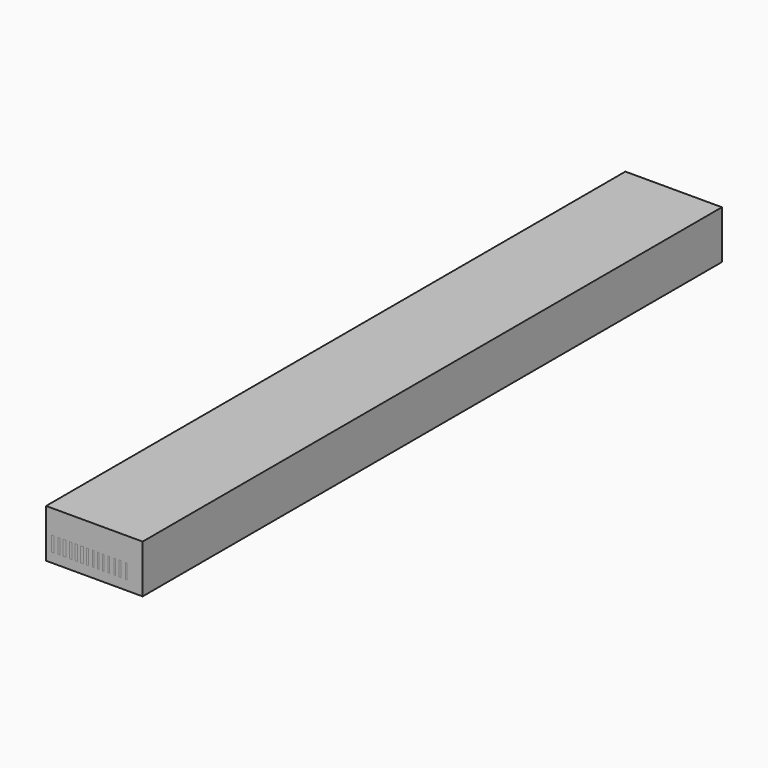
from build123d import *

# Parameters (mm, degrees)
F0_W     = 200
F0_H     = 100
F1_DEPTH = 1500
F2_W     = 180.065
F2_H     = 64.174236
F3_DEPTH = 1480
F4_W     = 3.5
F4_H     = 31.025586
F4_W_2   = 4.077878
F4_W_3   = 5.757004
F4_W_4   = 4.7975
F4_W_5   = 4.797503
F4_W_6   = 5.277252
F4_W_7   = 5.037379
F4_W_8   = 4.557629
F5_DEPTH = 1500
F6_W     = 124.494672
F6_H     = 31.025586
F7_DEPTH = 25


with BuildPart() as f1:
    # F0 (on Front) → F1 (new body)
    with BuildSketch(Plane.XZ):
        with Locations((78.220573, 42.386252)):
            Rectangle(F0_W, F0_H)
    extrude(amount=F1_DEPTH)

    # F2 (on face) → F3 (cut)
    with BuildSketch(Plane(origin=(0, 0, 0), x_dir=(-1, 0, 0), z_dir=(0, 1, 0))):
        with Locations((-68.253073, 44.161043)):
            Rectangle(F2_W, F2_H)
    extrude(amount=-F3_DEPTH, mode=Mode.SUBTRACT)


with BuildPart() as f5:
    # F4 (on face) → F5 (new body)
    with BuildSketch(Plane(origin=(0, 0, 0), x_dir=(-1, 0, 0), z_dir=(0, 1, 0))):
        with Locations((-144.291662, 27.586718)):
            Rectangle(F4_W, F4_H)
        with Locations((-131.184466, 27.586718)):
            Rectangle(F4_W, F4_H)
        with Locations((-120.460406, 27.586718)):
            Rectangle(F4_W, F4_H)
        with Locations((-108.246878, 27.586718)):
            Rectangle(F4_W, F4_H)
        with Locations((-96.908487, 27.586718)):
            Rectangle(F4_W, F4_H)
        with Locations((-86.520418, 27.586718)):
            Rectangle(F4_W, F4_H)
        with Locations((-76.031491, 27.586718)):
            Rectangle(F4_W, F4_H)
        with Locations((-63.710632, 27.586718)):
            Rectangle(F4_W_2, F4_H)
        with Locations((-52.55644, 27.586718)):
            Rectangle(F4_W_3, F4_H)
        with Locations((-40.562684, 27.586718)):
            Rectangle(F4_W_4, F4_H)
        with Locations((-29.048677, 27.586718)):
            Rectangle(F4_W_5, F4_H)
        with Locations((-16.335296, 27.586718)):
            Rectangle(F4_W_6, F4_H)
        with Locations((-4.941229, 27.586718)):
            Rectangle(F4_W_7, F4_H)
        with Locations((7.772153, 27.586718)):
            Rectangle(F4_W_8, F4_H)
    extrude(amount=-F5_DEPTH)

    # F6 (on face) → F7 (cut)
    with BuildSketch(Plane(origin=(-10.050968, 0, 0), x_dir=(0, -1, 0), z_dir=(-1, 0, 0))):
        with Locations((372.794926, 27.586718)):
            Rectangle(F6_W, F6_H)
    extrude(amount=-F7_DEPTH, mode=Mode.SUBTRACT)


solid = Compound([f1.part, f5.part])
